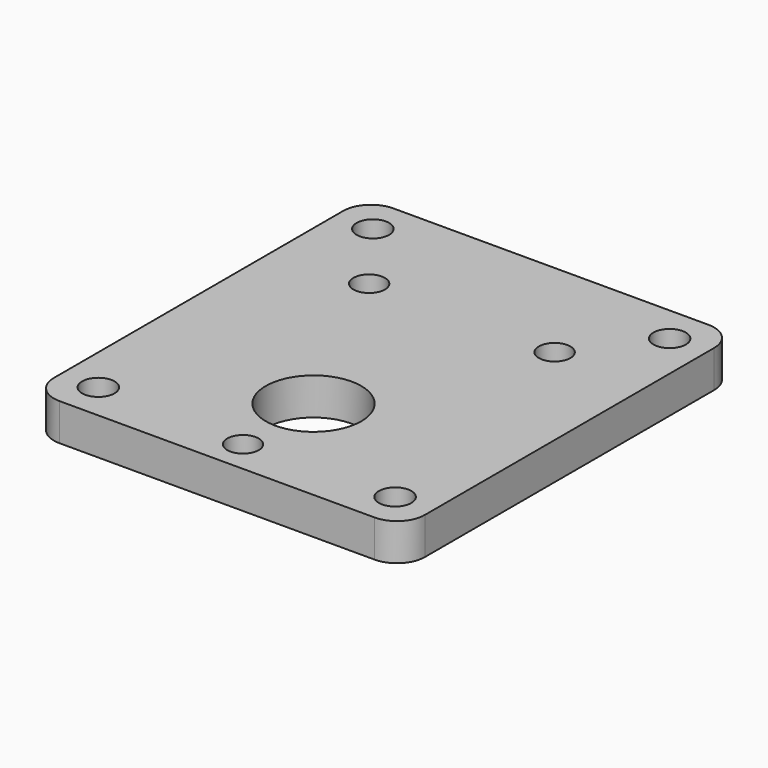
from build123d import *

# Parameters (mm, degrees)
SKETCH023_W         = 40
SKETCH023_H         = 45
SKETCH023_R         = 1.75
SKETCH023_R_2       = 5.15
SKETCH023_R_3       = 1.6
PAD007_DEPTH        = 4
FILLET005_R         = 3
HOLE001_D           = 3.4
HOLE001_DEPTH       = 25
HOLE001_CSINK_D     = 6.2
HOLE001_CSINK_ANGLE = 90


with BuildPart() as part:
    # Sketch023 → Pad007 (new body)
    with BuildSketch(Plane.XY):
        Rectangle(SKETCH023_W, SKETCH023_H)
        with Locations((-16, 18.5)):
            Circle(SKETCH023_R, mode=Mode.SUBTRACT)
        with Locations((16, 18.5)):
            Circle(SKETCH023_R, mode=Mode.SUBTRACT)
        with Locations((16, -18.5)):
            Circle(SKETCH023_R, mode=Mode.SUBTRACT)
        with Locations((-16, -18.5)):
            Circle(SKETCH023_R, mode=Mode.SUBTRACT)
        with Locations((0, -9.5)):
            Circle(SKETCH023_R_2, mode=Mode.SUBTRACT)
        with Locations((0, -19)):
            Circle(SKETCH023_R_3, mode=Mode.SUBTRACT)
        with Locations((-10, 10.5)):
            Circle(SKETCH023_R_3, mode=Mode.SUBTRACT)
        with Locations((10, 10.5)):
            Circle(SKETCH023_R_3, mode=Mode.SUBTRACT)
    extrude(amount=PAD007_DEPTH)

    # Fillet005
    fillet005_edges = [part.edges().sort_by_distance(p)[0] for p in [
        (20, 22.5, 2),
        (-20, -22.5, 2),
        (-20, 22.5, 2),
        (20, -22.5, 2),
    ]]
    fillet(fillet005_edges, radius=FILLET005_R)

    # Hole001
    with Locations(Plane(origin=(0, 0, 0), x_dir=(1, 0, 0), z_dir=(0, 0, -1))):
        with Locations((0, 19), (10, -10.5), (-10, -10.5)):
            CounterSinkHole(HOLE001_D / 2, HOLE001_CSINK_D / 2, depth=HOLE001_DEPTH, counter_sink_angle=HOLE001_CSINK_ANGLE)


solid = part.part
